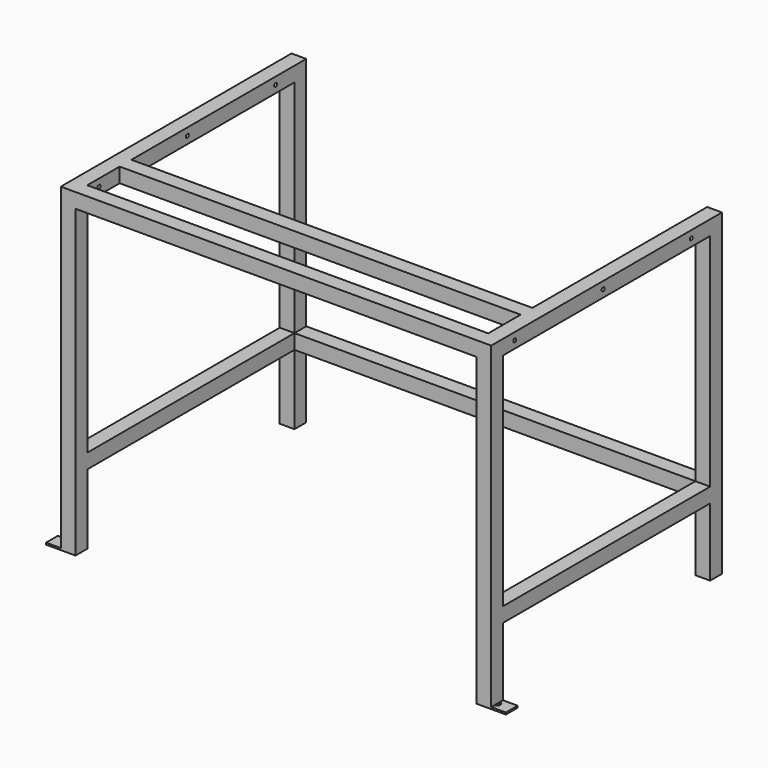
from build123d import *

# Parameters (mm, degrees)
F1_DEPTH  = 40
F2_W      = 40
F2_H      = 40
F3_DEPTH  = 704
F4_W      = 1090
F4_H      = 40
F4_W_2    = 40
F4_H_2    = 640
F4_H_3    = 190
F5_DEPTH  = 40
F6_W      = 40
F6_H      = 5
F7_DEPTH  = 80
F8_R      = 9
F7_FACE_W = 80
F7_FACE_H = 40
F9_DEPTH  = 30
F11_W     = 40
F11_H     = 40
F12_DEPTH = 1090
F13_R     = 5
F14_DEPTH = 1170


with BuildPart() as f1:
    # F0 (on Front) → F1 (new body)
    with BuildSketch(Plane.XZ):
        Polygon((-585, 20), (-585, -20), (-545, -20), (545, -20), (585, -20), (585, 20), align=None)
        Polygon((-545, -20), (-585, -20), (-585, -850), (-545, -850), (-545, -660), (-545, -620), align=None)
        Polygon((585, -20), (545, -20), (545, -620), (545, -660), (545, -850), (585, -850), align=None)
    extrude(amount=F1_DEPTH)

    # F2 (on face) → F3 (join)
    with BuildSketch(Plane(origin=(0, 0, 0), x_dir=(-1, 0, 0), z_dir=(0, 1, 0))):
        with Locations((-565, 0)):
            Rectangle(F2_W, F2_H)
        with Locations((565, 0)):
            Rectangle(F2_W, F2_H)
        with Locations((-565, -640)):
            Rectangle(F2_W, F2_H)
        with Locations((565, -640)):
            Rectangle(F2_W, F2_H)
    extrude(amount=F3_DEPTH)

    # F4 (on face) → F5 (join)
    with BuildSketch(Plane(origin=(0, 704, 0), x_dir=(-1, 0, 0), z_dir=(0, 1, 0))):
        Polygon((-545, 20), (-585, 20), (-585, -850), (-545, -850), (-545, -660), (-545, -620), align=None)
        with Locations((0, -640)):
            Rectangle(F4_W, F4_H)
        with Locations((565, -640)):
            Rectangle(F4_W_2, F4_H)
        with Locations((565, -300)):
            Rectangle(F4_W_2, F4_H_2)
        with Locations((565, -755)):
            Rectangle(F4_W_2, F4_H_3)
    extrude(amount=F5_DEPTH)


with BuildPart() as f7:
    # F6 (on face) → F7 (new body)
    with BuildSketch(Plane(origin=(545, 0, 0), x_dir=(0, -1, 0), z_dir=(-1, 0, 0))):
        with Locations((20, -847.5)):
            Rectangle(F6_W, F6_H)
    extrude(amount=-F7_DEPTH)


with BuildPart() as f7b:
    # F6 (on face) → F7, piece 2 (new body)
    with BuildSketch(Plane(origin=(545, 0, 0), x_dir=(0, -1, 0), z_dir=(-1, 0, 0))):
        with Locations((-724, -847.5)):
            Rectangle(F6_W, F6_H)
    extrude(amount=-F7_DEPTH)


with BuildPart() as f9_tool:
    # F8 (on face) + F7_face (on face) → F9 (new body)
    with BuildSketch(Plane.XY.offset(-845)):
        with Locations((585, -20)):
            Circle(F8_R)
    with BuildSketch(Plane(origin=(585, -20, -845), x_dir=(1, 0, 0), z_dir=(0, 0, 1))):
        with Locations((0, 744)):
            Rectangle(F7_FACE_W, F7_FACE_H)
    extrude(amount=-F9_DEPTH)


with BuildPart() as f1_1:
    add(f1.part)

    # F9: cut by f9_tool
    add(f9_tool.part, mode=Mode.SUBTRACT)

    # F10: F7 across plane


with BuildPart() as f7_1:
    add(f7.part)

    # F9: cut by f9_tool
    add(f9_tool.part, mode=Mode.SUBTRACT)


with BuildPart() as f7b_1:
    add(f7b.part)

    # F9: cut by f9_tool
    add(f9_tool.part, mode=Mode.SUBTRACT)


with BuildPart() as f1_2:
    add(f1_1.part)
    add(f7_1.part.mirror(Plane.YZ))


    add(f7_1.part)  # F12 merges F7
    # F11 (on face) → F12 (join, through all)
    with BuildSketch(Plane.YZ.offset(-545)):
        with Locations((130, 0)):
            Rectangle(F11_W, F11_H)
    extrude(amount=F12_DEPTH)

    # F13 (on face) → F14 (cut, through all)
    with BuildSketch(Plane.YZ.offset(585)):
        with Locations((340, 0)):
            Circle(F13_R)
        with Locations((640, 0)):
            Circle(F13_R)
        with Locations((40, 0)):
            Circle(F13_R)
    extrude(amount=-F14_DEPTH, mode=Mode.SUBTRACT)


solid = f1_2.part
